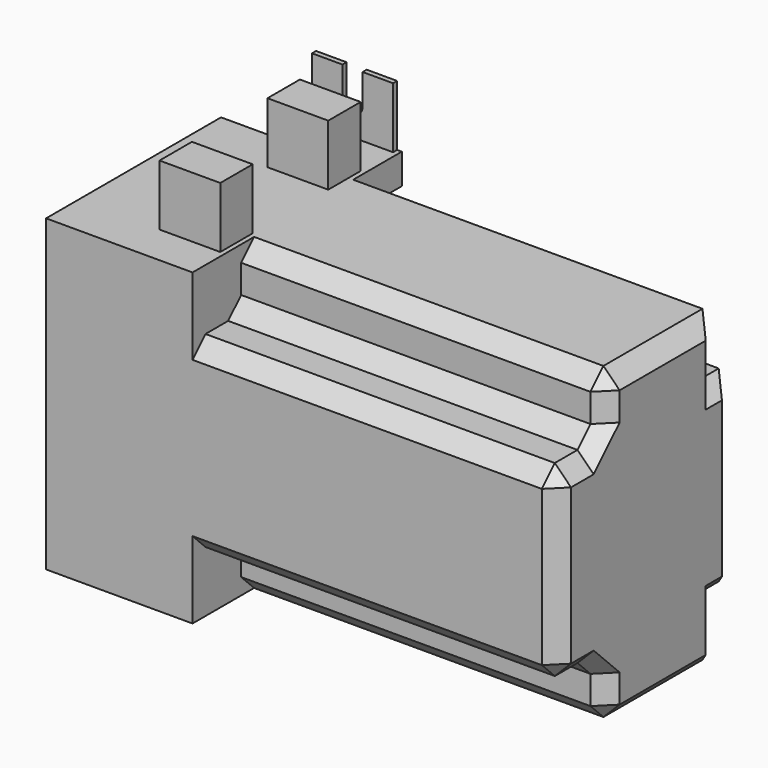
from build123d import *

# Parameters (mm, degrees)
F0_W      = 160.5
F0_H      = 82
F1_DEPTH  = 135
F2_W      = 12.7
F2_H      = 19.05
F2_W_2    = 29.6125
F2_W_3    = 55.0125
F3_DEPTH  = 160.501
F4_W      = 116.05
F4_H      = 19.05
F4_W_2    = 19.05
F4_W_3    = 160.5
F4_H_2    = 38.925
F5_DEPTH  = 12.7
F6_W      = 25.4
F6_H      = 19.05
F6_W_2    = 116.05
F7_DEPTH  = 74.34175
F8_W      = 19.05
F8_H      = 19.05
F9_DEPTH  = 114.58845
F10_SIZE  = 5.08
F11_W     = 28.7067964673
F11_H     = 142.8163200617
F12_DEPTH = 17.65534


with BuildPart() as f1:
    # F0 (on Top) → F1 (new body)
    with BuildSketch(Plane.XY):
        with Locations((80.25, 41)):
            Rectangle(F0_W, F0_H)
    extrude(amount=F1_DEPTH)

    # F2 (on face) → F3 (cut, through all)
    with BuildSketch(Plane.YZ.offset(160.5)):
        with Locations((6.35, 125.475)):
            Rectangle(F2_W, F2_H)
        with Locations((40.20625, 125.475)):
            Rectangle(F2_W_2, F2_H)
        with Locations((74.0625, 125.475)):
            Rectangle(F2_W, F2_H)
        with Locations((74.0625, 9.525)):
            Rectangle(F2_W, F2_H)
        with Locations((27.50625, 9.525)):
            Rectangle(F2_W_3, F2_H)
    extrude(amount=-F3_DEPTH, mode=Mode.SUBTRACT)

    # F4 (on face) → F5 (cut)
    with BuildSketch(Plane(origin=(0, 82, 0), x_dir=(-1, 0, 0), z_dir=(0, 1, 0))):
        with Locations((-102.475, 125.475)):
            Rectangle(F4_W, F4_H)
        with Locations((-9.525, 125.475)):
            Rectangle(F4_W_2, F4_H)
        with Locations((-80.25, 86.9625)):
            Rectangle(F4_W_3, F4_H_2)
        with Locations((-80.25, 48.0375)):
            Rectangle(F4_W_3, F4_H_2)
        with BuildLine():
            Line((-28.575, 135), (-34.925, 135))
            Line((-34.925, 135), (-34.925, 125.475))
            ThreePointArc((-34.925, 125.475), (-31.75, 122.3), (-28.575, 125.475))
            Line((-28.575, 125.475), (-28.575, 135))
        make_face()
        with BuildLine():
            ThreePointArc((-28.575, 9.525), (-31.75, 12.7), (-34.925, 9.525))
            Line((-34.925, 9.525), (-34.925, 0))
            Line((-34.925, 0), (-28.575, 0))
            Line((-28.575, 0), (-28.575, 9.525))
        make_face()
        with Locations((-102.475, 9.525)):
            Rectangle(F4_W, F4_H)
        with Locations((-9.525, 9.525)):
            Rectangle(F4_W_2, F4_H)
    extrude(amount=-F5_DEPTH, mode=Mode.SUBTRACT)

    # F6 (on face) → F7 (cut)
    with BuildSketch(Plane.XZ):
        with Locations((12.7, 125.475)):
            Rectangle(F6_W, F6_H)
        with Locations((102.475, 125.475)):
            Rectangle(F6_W_2, F6_H)
        with Locations((12.7, 9.525)):
            Rectangle(F6_W, F6_H)
        with Locations((102.475, 9.525)):
            Rectangle(F6_W_2, F6_H)
    extrude(amount=-F7_DEPTH, mode=Mode.SUBTRACT)

    # F8 (on face) → F9 (cut)
    with BuildSketch(Plane.YZ.offset(160.5)):
        with Locations((9.525, 106.425)):
            Rectangle(F8_W, F8_H)
        with Locations((72.475, 106.425)):
            Rectangle(F8_W, F8_H)
        with Locations((72.475, 28.575)):
            Rectangle(F8_W, F8_H)
        with Locations((9.525, 28.575)):
            Rectangle(F8_W, F8_H)
    extrude(amount=-F9_DEPTH, mode=Mode.SUBTRACT)

    # F10
    f10_edges = [f1.edges().sort_by_distance(p)[0] for p in [
        (103.205775, 19.05, 96.9),
        (103.205775, 0, 96.9),
        (103.205775, 19.05, 115.95),
        (160.5, 41, 115.95),
        (160.5, 62.95, 28.575),
        (160.5, 66.125, 38.1),
        (160.5, 69.3, 67.5),
        (160.5, 66.125, 96.9),
        (160.5, 62.95, 106.425),
        (160.5, 19.05, 106.425),
        (160.5, 9.525, 96.9),
        (160.5, 0, 67.5),
        (160.5, 9.525, 38.1),
        (160.5, 19.05, 28.575),
        (160.5, 41, 19.05),
        (103.205775, 19.05, 38.1),
        (103.205775, 0, 38.1),
        (103.205775, 19.05, 19.05),
    ]]
    chamfer(f10_edges, length=F10_SIZE)

    # F11 (on face) → F12 (cut)
    with BuildSketch(Plane(origin=(0, 0, 0), x_dir=(0, -1, 0), z_dir=(-1, 0, 0))):
        with Locations((-82.9201973975, 60.9774813056)):
            Rectangle(F11_W, F11_H)
    extrude(amount=-F12_DEPTH, mode=Mode.SUBTRACT)


solid = f1.part
